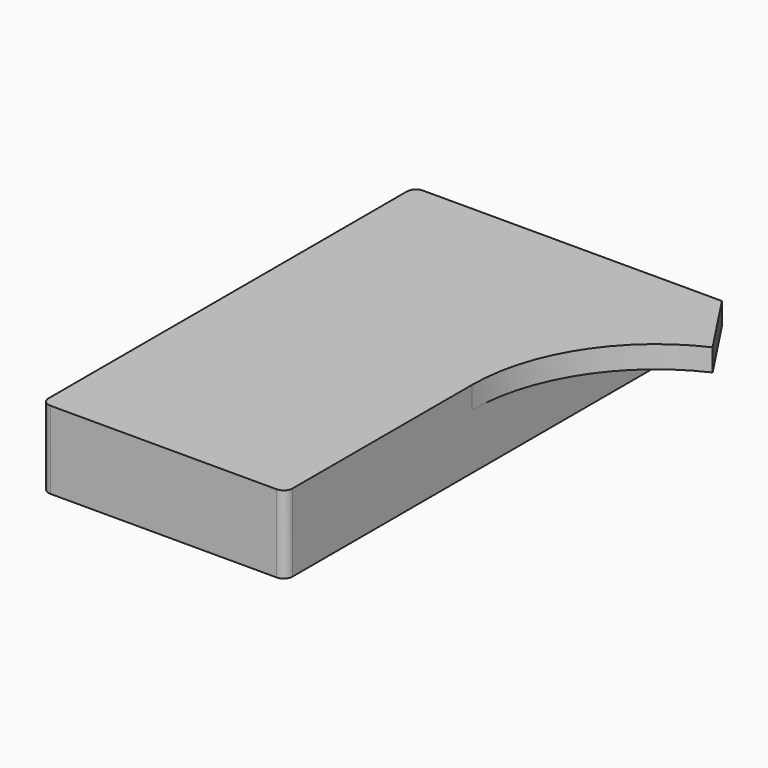
from build123d import *

# Parameters (mm, degrees)
F0_W     = 22
F0_H     = 42
F0_W_2   = 20.2
F0_H_2   = 40.2
F1_DEPTH = 5
F2_W     = 20.2
F2_H     = 40.2
F3_DEPTH = 2
F4_R     = 0.8


with BuildPart() as f1:
    # F0 (on Top) → F1 (new body)
    with BuildSketch(Plane.XY):
        with Locations((11, 21)):
            Rectangle(F0_W, F0_H)
        with Locations((11, 21)):
            Rectangle(F0_W_2, F0_H_2, mode=Mode.SUBTRACT)
    extrude(amount=-F1_DEPTH)

    # F2 (on face) → F3 (join)
    with BuildSketch(Plane.XY):
        Polygon((0, 42), (0, 0), (22, 0), (22, 21), (22, 42), align=None)
        with Locations((11, 21)):
            Rectangle(F2_W, F2_H, mode=Mode.SUBTRACT)
        with Locations((11, 21)):
            Rectangle(F2_W, F2_H)
        with BuildLine():
            Line((22, 42), (22, 21))
            ThreePointArc((22, 21), (24.6191216351, 29.9495548074), (31.65, 36.075))
            Line((31.65, 36.075), (27.75, 42))
            Line((27.75, 42), (22, 42))
        make_face()
    extrude(amount=F3_DEPTH)

    # F4
    f4_edges = [f1.edges().sort_by_distance(p)[0] for p in [
        (22, 0, -1.5),
        (0, 0, -1.5),
        (0, 42, -1.5),
        (22, 42, -2.5),
        (21.1, 0.9, -2.5),
        (21.1, 41.1, -2.5),
        (0.9, 0.9, -2.5),
        (0.9, 41.1, -2.5),
    ]]
    fillet(f4_edges, radius=F4_R)


solid = f1.part
